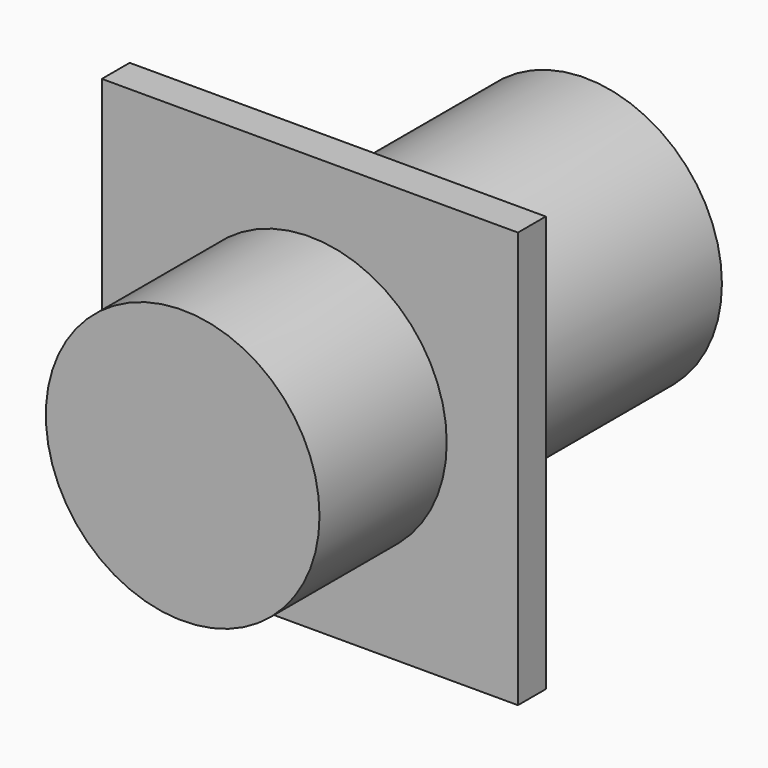
from build123d import *

# Parameters (mm, degrees)
F0_W          = 28.575
F0_H          = 28.575
F0_R          = 9.398
F1_DEPTH      = 2.3876
F2_DEPTH      = 13.3096
F2_DEPTH_BACK = 21.2344


with BuildPart() as f1:
    # F0 (on Front) → F1 (new body)
    with BuildSketch(Plane.XZ):
        Rectangle(F0_W, F0_H)
        Circle(F0_R, mode=Mode.SUBTRACT)
    extrude(amount=F1_DEPTH)

    # F0 (on Front) → F2 (join, two sides)
    with BuildSketch(Plane.XZ) as f2_sk:
        Circle(F0_R)
    extrude(amount=F2_DEPTH)
    extrude(f2_sk.sketch, amount=-F2_DEPTH_BACK)


solid = f1.part
